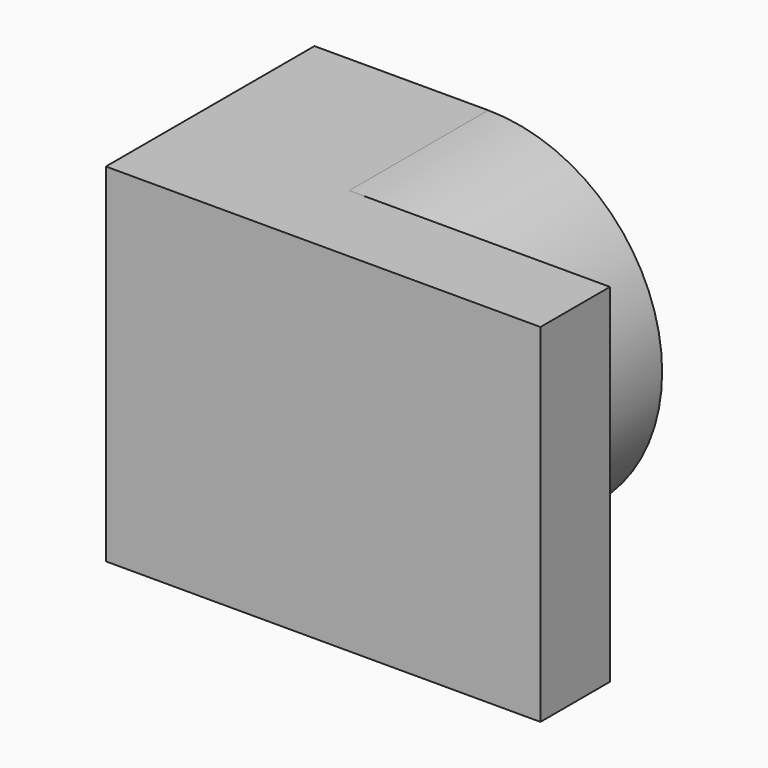
from build123d import *

# Parameters (mm, degrees)
F0_W     = 5
F0_H     = 3
F1_DEPTH = 4
F3_DEPTH = 2


with BuildPart() as f1:
    # F0 (on Top) → F1 (new body)
    with BuildSketch(Plane.XY):
        with Locations((2.5, 1.5)):
            Rectangle(F0_W, F0_H)
    extrude(amount=F1_DEPTH)

    # F2 (on face) → F3 (cut)
    with BuildSketch(Plane(origin=(0, 3, 0), x_dir=(-1, 0, 0), z_dir=(0, 1, 0))):
        with BuildLine():
            Line((-5, 0), (-2, 0))
            ThreePointArc((-2, 0), (-4, 2), (-2, 4))
            Line((-2, 4), (-5, 4))
            Line((-5, 4), (-5, 0))
        make_face()
    extrude(amount=-F3_DEPTH, mode=Mode.SUBTRACT)


solid = f1.part
